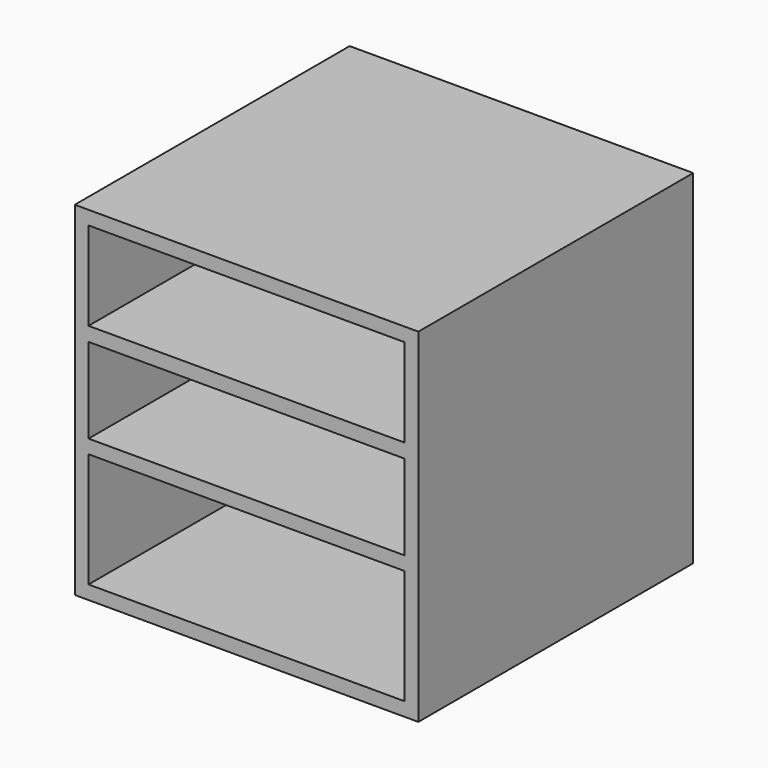
from build123d import *

# Parameters (mm, degrees)
F0_W     = 300
F0_H     = 300
F1_DEPTH = 300
F2_T     = -12
F3_W     = 276
F3_H     = 12.3312585362
F3_H_2   = 12
F4_DEPTH = 295


with BuildPart() as f1:
    # F0 (on Front) → F1 (new body)
    with BuildSketch(Plane.XZ):
        Rectangle(F0_W, F0_H)
    extrude(amount=-F1_DEPTH)

    # F2
    f2_openings = [f1.faces().sort_by_distance(p)[0] for p in [
        (0, 0, 0),
    ]]
    offset(amount=F2_T, openings=f2_openings)

    # F3 (on face) → F4 (join)
    with BuildSketch(Plane.XZ):
        with Locations((0, 54.6443801671)):
            Rectangle(F3_W, F3_H)
        with Locations((0, -31.8947338536)):
            Rectangle(F3_W, F3_H_2)
    extrude(amount=-F4_DEPTH)


solid = f1.part
